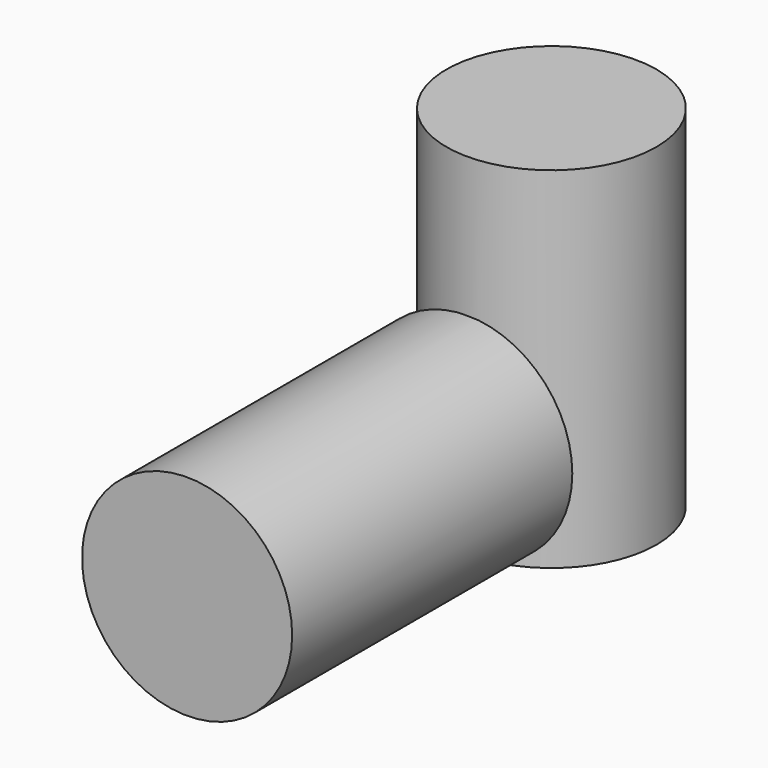
from build123d import *

# Parameters (mm, degrees)
F0_R     = 15
F1_DEPTH = 50
F2_R     = 15
F3_DEPTH = 50


with BuildPart() as f1:
    # F0 (on Front) → F1 (new body)
    with BuildSketch(Plane.XZ):
        with Locations((-14.979829, 14.988333)):
            Circle(F0_R)
    extrude(amount=F1_DEPTH)

    # F2 (on Top) → F3 (join)
    with BuildSketch(Plane.XY):
        with Locations((-14.900394, 14.927425)):
            Circle(F2_R)
    extrude(amount=F3_DEPTH)


solid = f1.part
